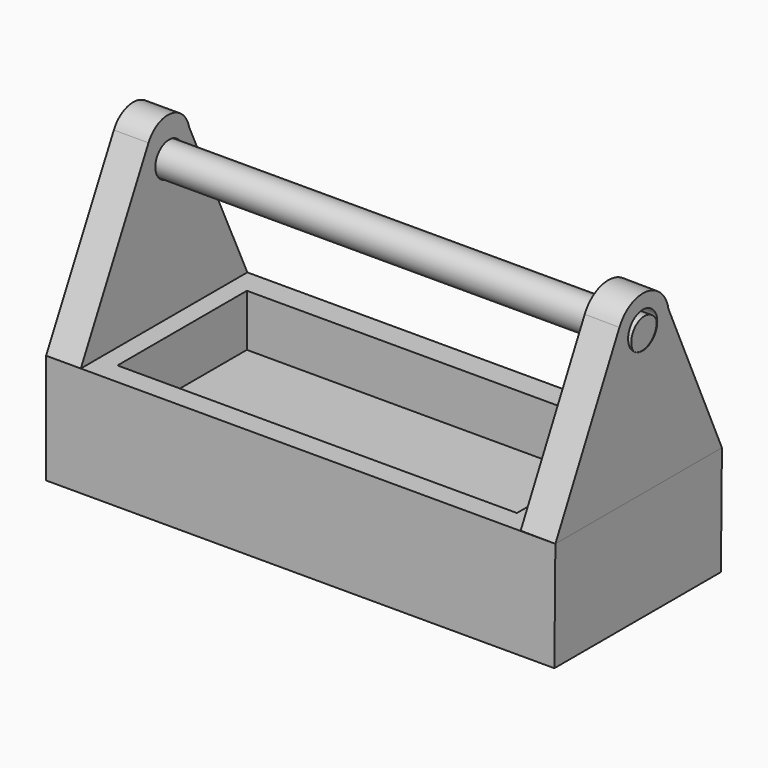
from build123d import *

# Parameters (mm, degrees)
F1_DEPTH  = 60
F3_DEPTH  = 10
F5_DEPTH  = 10
F6_W      = 115.122299
F6_H      = 46.624533
F7_DEPTH  = 15
F8_R      = 4.955258
F9_DEPTH  = 25
F10_R     = 5.253473
F11_DEPTH = 25
F12_R     = 4.747147
F13_DEPTH = 147


with BuildPart() as f1:
    # F0 (on Front) → F1 (new body)
    with BuildSketch(Plane.XZ):
        Polygon((74.685596, -46.768438), (74.973397, -15.109803), (-71.807534, -15.109803), (-71.807534, -46.768438), align=None)
    extrude(amount=F1_DEPTH)

    # F2 (on face) → F3 (join)
    with BuildSketch(Plane(origin=(-71.807534, 0, 0), x_dir=(0, -1, 0), z_dir=(-1, 0, 0))):
        with BuildLine():
            ThreePointArc((20.989064, 30.312963), (27.793625, 20.853029), (36.465838, 28.636673))
            ThreePointArc((36.465838, 28.636673), (36.245114, 30.482603), (35.595386, 32.22445))
            ThreePointArc((35.595386, 32.22445), (29.316557, 36.436263), (22.403684, 33.374364))
            Line((22.403684, 33.374364), (20.989064, 30.312963))
        make_face()
        with BuildLine():
            ThreePointArc((35.595386, 32.22445), (36.245114, 30.482603), (36.465838, 28.636673))
            ThreePointArc((36.465838, 28.636673), (27.793625, 20.853029), (20.989064, 30.312963))
            Line((20.989064, 30.312963), (0, -15.109803))
            Line((0, -15.109803), (60, -15.109803))
            Line((60, -15.109803), (35.595386, 32.22445))
        make_face()
        with BuildLine():
            ThreePointArc((22.403684, 33.374364), (21.529578, 31.920737), (20.989064, 30.312963))
            Line((20.989064, 30.312963), (22.403684, 33.374364))
        make_face()
    extrude(amount=-F3_DEPTH)

    # F6 (on face) → F7 (cut)
    with BuildSketch(Plane.XY.offset(-15.109803)):
        with Locations((1.266939, -30.363507)):
            Rectangle(F6_W, F6_H)
    extrude(amount=-F7_DEPTH, mode=Mode.SUBTRACT)

    # F8 (on face) → F9 (cut)
    with BuildSketch(Plane(origin=(-71.807534, 0, 0), x_dir=(0, -1, 0), z_dir=(-1, 0, 0))):
        with Locations((28.185701, 25.069697)):
            Circle(F8_R)
    extrude(amount=-F9_DEPTH, mode=Mode.SUBTRACT)


with BuildPart() as f5:
    # F4 (on face) → F5 (new body)
    with BuildSketch(Plane(origin=(75.10455, 0, -0.682757), x_dir=(0, 1, 0), z_dir=(0.999959, 0, -0.00909))):
        with BuildLine():
            ThreePointArc((-37.452274, 31.450747), (-31.146363, 18.15289), (-19.621624, 27.305918))
            ThreePointArc((-19.621624, 27.305918), (-19.658479, 28.137359), (-19.768754, 28.962278))
            ThreePointArc((-19.768754, 28.962278), (-27.709216, 36.611302), (-37.452274, 31.450747))
        make_face()
        with BuildLine():
            ThreePointArc((-19.768754, 28.962278), (-19.658479, 28.137359), (-19.621624, 27.305918))
            ThreePointArc((-19.621624, 27.305918), (-31.146363, 18.15289), (-37.452274, 31.450747))
            Line((-37.452274, 31.450747), (-60, -14.427641))
            Line((-60, -14.427641), (0, -14.427641))
            Line((0, -14.427641), (-19.768754, 28.962278))
        make_face()
    extrude(amount=-F5_DEPTH)

    # F10 (on face) → F11 (cut)
    with BuildSketch(Plane(origin=(75.10455, 0, -0.682757), x_dir=(0, 1, 0), z_dir=(0.999959, 0, -0.00909))):
        with Locations((-29.018693, 27.305918)):
            Circle(F10_R)
    extrude(amount=-F11_DEPTH, mode=Mode.SUBTRACT)

    # F12 (on face) → F13 (join)
    with BuildSketch(Plane(origin=(-71.807534, 0, 0), x_dir=(0, -1, 0), z_dir=(-1, 0, 0))):
        with Locations((28.185701, 25.069697)):
            Circle(F12_R)
    extrude(amount=-F13_DEPTH)


solid = Compound([f1.part, f5.part])
